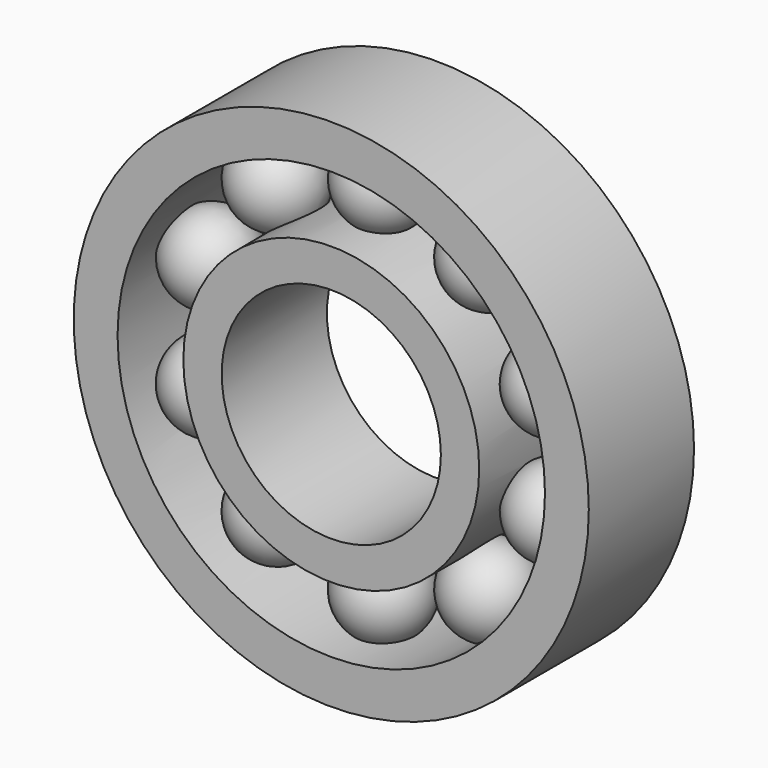
from build123d import *

# Parameters (mm, degrees)
F0_R     = 13.5
F0_R_2   = 10
F1_DEPTH = 12
F2_R     = 23.5
F2_R_2   = 19.5
F3_DEPTH = 12
F8_COUNT = 10


with BuildPart() as f1:
    # F0 (on Front) → F1 (new body)
    with BuildSketch(Plane.XZ):
        Circle(F0_R)
        Circle(F0_R_2, mode=Mode.SUBTRACT)
    extrude(amount=F1_DEPTH)



with BuildPart() as f3:
    # F2 (on Front) → F3 (new body)
    with BuildSketch(Plane.XZ):
        Circle(F2_R)
        Circle(F2_R_2, mode=Mode.SUBTRACT)
    extrude(amount=F3_DEPTH)


with BuildPart() as f1_1:
    add(f1.part)

    add(f3.part)  # F6 merges F3
    # F5 (on offset) → F6 (revolve)
    with BuildSketch(Plane.XZ.offset(6)):
        with BuildLine():
            Line((0, 20.5), (0, 12.5))
            ThreePointArc((0, 12.5), (4, 16.5), (0, 20.5))
        make_face()
    revolve(axis=Axis((0, -6, 16.5), (0, 0, -1)))

    # F8: F1 ×10 about axis
    f8_axis = Axis((0, -76.0473608971, 0), (0, -1, 0))


with BuildPart() as f1_2:
    add(f1_1.part)
    for i in range(1, F8_COUNT):
        add(f1_1.part.rotate(f8_axis, i * 360 / F8_COUNT))


solid = f1_2.part
